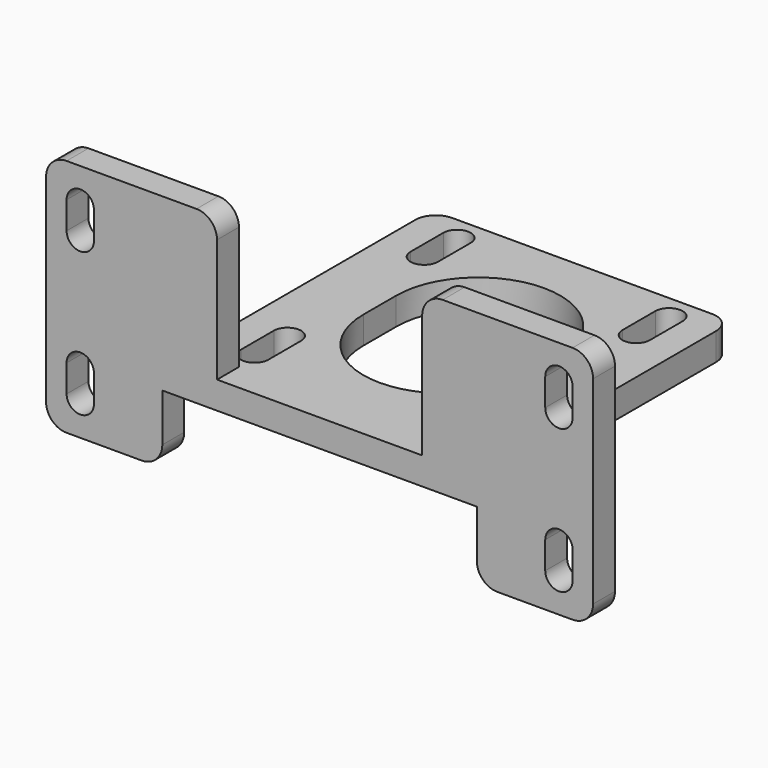
from build123d import *

# Parameters (mm, degrees)
PAD001_DEPTH = 4
SKETCH_W     = 44
SKETCH_H     = 44
PAD_DEPTH    = 4
FILLET_R     = 3


with BuildPart() as body001:
    # Sketch001 → Pad001 (new body)
    with BuildSketch(Plane.XZ):
        Polygon((40, -10), (40, 25), (15, 25), (15, 4), (-15, 4), (-15, 25), (-40, 25), (-40, -10), (-23, -10), (-23, 0), (23, 0), (23, -10), align=None)
        with BuildLine():
            ThreePointArc((-33, 20), (-35, 22), (-37, 20))
            Line((-37, 20), (-37, 16))
            ThreePointArc((-37, 16), (-35, 14), (-33, 16))
            Line((-33, 20), (-33, 16))
        make_face(mode=Mode.SUBTRACT)
        with BuildLine():
            ThreePointArc((-33, -1), (-35, 1), (-37, -1))
            Line((-37, -1), (-37, -5))
            ThreePointArc((-37, -5), (-35, -7), (-33, -5))
            Line((-33, -1), (-33, -5))
        make_face(mode=Mode.SUBTRACT)
        with BuildLine():
            ThreePointArc((37, 20), (35, 22), (33, 20))
            Line((33, 20), (33, 16))
            ThreePointArc((33, 16), (35, 14), (37, 16))
            Line((37, 20), (37, 16))
        make_face(mode=Mode.SUBTRACT)
        with BuildLine():
            ThreePointArc((37, -1), (35, 1), (33, -1))
            Line((33, -1), (33, -5))
            ThreePointArc((33, -5), (35, -7), (37, -5))
            Line((37, -1), (37, -5))
        make_face(mode=Mode.SUBTRACT)
    extrude(amount=PAD001_DEPTH)


with BuildPart() as body001_1:
    # Body001 placement: moved
    add(body001.part.moved(Location((0, -22, 0))))


with BuildPart() as fillet_body:
    # Sketch → Pad (new body)
    with BuildSketch(Plane.XY):
        Rectangle(SKETCH_W, SKETCH_H)
        with BuildLine():
            ThreePointArc((-13.5, 18.5), (-15.5, 20.5), (-17.5, 18.5))
            Line((-17.5, 18.5), (-17.5, 12.5))
            ThreePointArc((-17.5, 12.5), (-15.5, 10.5), (-13.5, 12.5))
            Line((-13.5, 18.5), (-13.5, 12.5))
        make_face(mode=Mode.SUBTRACT)
        with BuildLine():
            ThreePointArc((-13.5, -12.5), (-15.5, -10.5), (-17.5, -12.5))
            Line((-17.5, -12.5), (-17.5, -18.5))
            ThreePointArc((-17.5, -18.5), (-15.5, -20.5), (-13.5, -18.5))
            Line((-13.5, -12.5), (-13.5, -18.5))
        make_face(mode=Mode.SUBTRACT)
        with BuildLine():
            ThreePointArc((17.5, 18.5), (15.5, 20.5), (13.5, 18.5))
            Line((13.5, 18.5), (13.5, 12.5))
            ThreePointArc((13.5, 12.5), (15.5, 10.5), (17.5, 12.5))
            Line((17.5, 18.5), (17.5, 12.5))
        make_face(mode=Mode.SUBTRACT)
        with BuildLine():
            ThreePointArc((17.5, -12.5), (15.5, -10.5), (13.5, -12.5))
            Line((13.5, -12.5), (13.5, -18.5))
            ThreePointArc((13.5, -18.5), (15.5, -20.5), (17.5, -18.5))
            Line((17.5, -12.5), (17.5, -18.5))
        make_face(mode=Mode.SUBTRACT)
        with BuildLine():
            ThreePointArc((12, 3), (0, 15), (-12, 3))
            Line((-12, 3), (-12, -3))
            ThreePointArc((-12, -3), (0, -15), (12, -3))
            Line((12, 3), (12, -3))
        make_face(mode=Mode.SUBTRACT)
    extrude(amount=PAD_DEPTH)

    # Fusion001: union Body001
    add(body001_1.part)

    # Fillet
    fillet_edges = [fillet_body.edges().sort_by_distance(p)[0] for p in [
        (-22, 22, 2),
        (22, 22, 2),
        (-23, -24, -10),
        (-40, -24, -10),
        (-40, -24, 25),
        (-15, -24, 25),
        (23, -24, -10),
        (40, -24, -10),
        (15, -24, 25),
        (40, -24, 25),
    ]]
    fillet(fillet_edges, radius=FILLET_R)


solid = fillet_body.part
